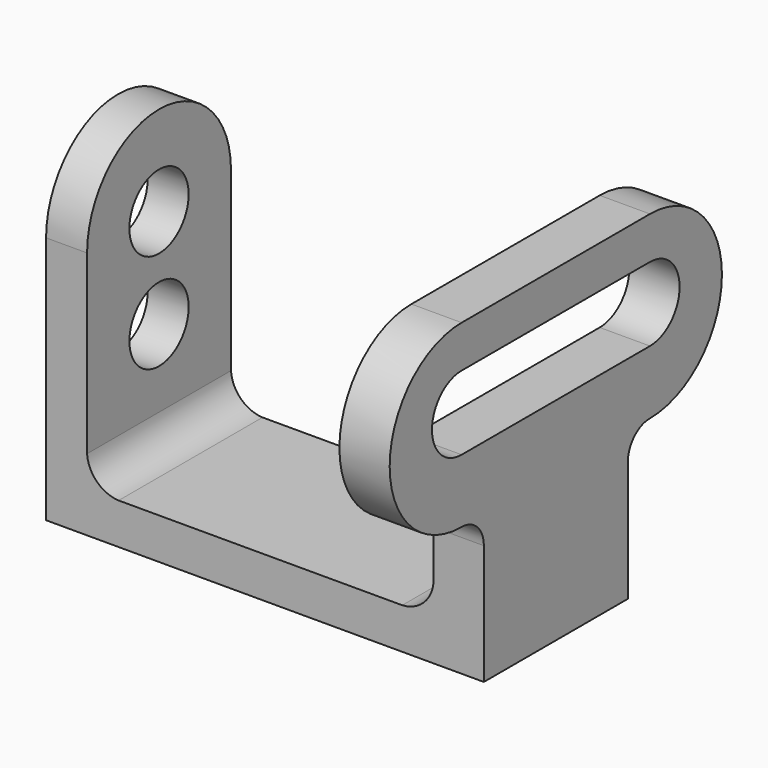
from build123d import *

# Parameters (mm, degrees)
F1_DEPTH = 34.544
F2_R     = 7.112
F3_DEPTH = 7.874
F4_DEPTH = 25.4
F6_DEPTH = 9.652
F7_W     = 34.544
F7_H     = 5.486277777
F8_DEPTH = 25.4


with BuildPart() as f1:
    # F0 (on Front) → F1 (new body)
    with BuildSketch(Plane.XZ):
        with BuildLine():
            Line((0, 47.752), (0, 0))
            Line((0, 0), (84.074, 0))
            Line((84.074, 0), (84.074, 46.0728103706))
            Line((84.074, 46.0728103706), (74.422, 46.0728103706))
            Line((74.422, 46.0728103706), (74.422, 13.8083361089))
            ThreePointArc((74.422, 13.8083361089), (72.5428108199, 9.6937865704), (68.4016459212, 7.874))
            ThreePointArc((68.4016459212, 7.874), (68.0851061158, 7.8661055298), (67.7685663104, 7.874))
            Line((67.7685663104, 7.874), (14.4938547164, 7.874))
            ThreePointArc((14.4938547164, 7.874), (14.2107918665, 7.8676878409), (13.9277290166, 7.874))
            ThreePointArc((13.9277290166, 7.874), (9.7656028514, 9.6830660684), (7.874, 13.8083361089))
            Line((7.874, 13.8083361089), (7.874, 47.752))
            Line((7.874, 47.752), (0, 47.752))
        make_face()
        with BuildLine():
            Line((14.4938547164, 7.874), (13.9277290166, 7.874))
            ThreePointArc((13.9277290166, 7.874), (14.2107918665, 7.8676878409), (14.4938547164, 7.874))
        make_face()
        with BuildLine():
            ThreePointArc((67.7685663104, 7.874), (68.0851061158, 7.8661055298), (68.4016459212, 7.874))
            Line((68.4016459212, 7.874), (67.7685663104, 7.874))
        make_face()
    extrude(amount=F1_DEPTH)

    # F2 (on face) → F3 (join, through all)
    with BuildSketch(Plane(origin=(0, 0, 0), x_dir=(0, -1, 0), z_dir=(-1, 0, 0))):
        with BuildLine():
            Line((34.544, 0), (34.544, 47.752))
            ThreePointArc((34.544, 47.752), (17.272, 65.024), (0, 47.752))
            Line((0, 47.752), (0, 0))
            Line((0, 0), (34.544, 0))
        make_face()
        with Locations((17.272, 28.702)):
            Circle(F2_R, mode=Mode.SUBTRACT)
        with Locations((17.272, 47.752)):
            Circle(F2_R, mode=Mode.SUBTRACT)
    extrude(amount=-F3_DEPTH)

    # F2 (on face) → F4 (cut)
    with BuildSketch(Plane(origin=(0, 0, 0), x_dir=(0, -1, 0), z_dir=(-1, 0, 0))):
        with BuildLine():
            ThreePointArc((10.16, 47.752), (17.272, 40.64), (24.384, 47.752))
            Line((24.384, 47.752), (10.16, 47.752))
        make_face()
        with Locations((17.272, 28.702)):
            Circle(F2_R)
    extrude(amount=-F4_DEPTH, mode=Mode.SUBTRACT)

    # F5 (on face) → F6 (join, through all)
    with BuildSketch(Plane.YZ.offset(84.074)):
        with BuildLine():
            Line((-34.544, 23.0364051853), (-34.544, 0))
            Line((-34.544, 0), (0, 0))
            Line((0, 0), (0, 23.0364051853))
            ThreePointArc((0, 23.0364051853), (1.5622924292, 26.8081127561), (5.334, 28.3704051853))
            ThreePointArc((5.334, 28.3704051853), (22.606, 45.6424051853), (5.334, 62.9144051853))
            Line((5.334, 62.9144051853), (-39.878, 62.9144051853))
            ThreePointArc((-39.878, 62.9144051853), (-57.15, 45.6424051853), (-39.878, 28.3704051853))
            ThreePointArc((-39.878, 28.3704051853), (-36.1062924292, 26.8081127561), (-34.544, 23.0364051853))
        make_face()
        with BuildLine():
            ThreePointArc((-39.878, 40.5865325936), (-46.99, 47.6985325936), (-39.878, 54.8105325936))
            Line((-39.878, 54.8105325936), (5.334, 54.8105325936))
            ThreePointArc((5.334, 54.8105325936), (12.446, 47.6985325936), (5.334, 40.5865325936))
            Line((5.334, 40.5865325936), (-39.878, 40.5865325936))
        make_face(mode=Mode.SUBTRACT)
    extrude(amount=-F6_DEPTH)

    # F7 (on face) → F8 (cut)
    with BuildSketch(Plane.YZ.offset(84.074)):
        with Locations((-17.272, 43.3296714821)):
            Rectangle(F7_W, F7_H)
    extrude(amount=-F8_DEPTH, mode=Mode.SUBTRACT)


solid = f1.part
